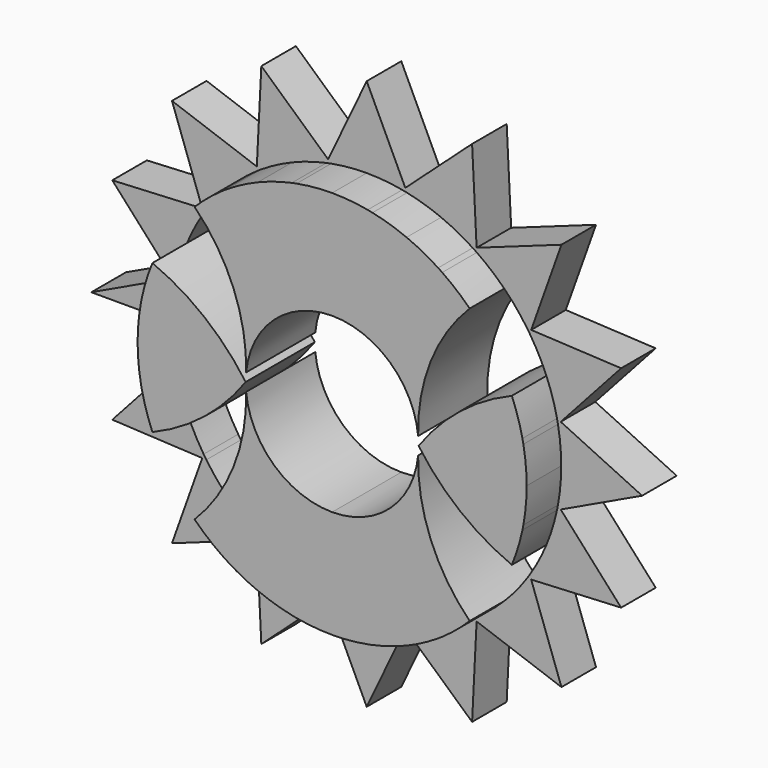
from build123d import *

# Parameters (mm, degrees)
F1_DEPTH = 6.35
F2_DEPTH = 12.7


with BuildPart() as f1:
    # F0 (on Front) → F1 (new body)
    with BuildSketch(Plane.XZ):
        with BuildLine():
            ThreePointArc((28.0940846779, 5.220443574), (28.4545171693, 2.6212740536), (28.575, 0))
            Line((28.575, 0), (40.4561832547, 0))
            Line((40.4561832547, 0), (28.4998200535, 5.6689666767))
            Line((28.4998200535, 5.6689666767), (28.0940846779, 5.220443574))
        make_face()
        with BuildLine():
            ThreePointArc((27.9533270839, 5.9280797851), (28.0259393875, 5.5747059516), (28.0940846779, 5.220443574))
            Line((28.0940846779, 5.220443574), (28.4998200535, 5.6689666767))
            Line((28.4998200535, 5.6689666767), (27.9533270839, 5.9280797851))
        make_face()
        with BuildLine():
            Line((37.3766396726, 15.4819110683), (26.3998576415, 10.9351790798))
            ThreePointArc((26.3998576415, 10.9351790798), (27.2916641722, 8.4673308494), (27.9533270839, 5.9280797851))
            Line((27.9533270839, 5.9280797851), (28.4998200535, 5.6689666767))
            Line((28.4998200535, 5.6689666767), (37.3766396726, 15.4819110683))
        make_face()
        with BuildLine():
            ThreePointArc((23.9577725532, 15.5742017223), (25.2854278682, 13.3108137438), (26.3998576415, 10.9351790798))
            Line((26.3998576415, 10.9351790798), (37.3766396726, 15.4819110683))
            Line((37.3766396726, 15.4819110683), (24.1609808019, 16.143851243))
            Line((24.1609808019, 16.143851243), (23.9577725532, 15.5742017223))
        make_face()
        with BuildLine():
            ThreePointArc((23.556928839, 16.174106735), (23.7592441715, 15.8754194085), (23.9577725532, 15.5742017223))
            Line((23.9577725532, 15.5742017223), (24.1609808019, 16.143851243))
            Line((24.1609808019, 16.143851243), (23.556928839, 16.174106735))
        make_face()
        with BuildLine():
            Line((28.6068415203, 28.6068415203), (20.2055762724, 20.2055762724))
            ThreePointArc((20.2055762724, 20.2055762724), (21.9739027044, 18.2668613871), (23.556928839, 16.174106735))
            Line((23.556928839, 16.174106735), (24.1609808019, 16.143851243))
            Line((24.1609808019, 16.143851243), (28.6068415203, 28.6068415203))
        make_face()
        with BuildLine():
            ThreePointArc((16.174106735, 23.556928839), (18.2668613871, 21.9739027044), (20.2055762724, 20.2055762724))
            Line((20.2055762724, 20.2055762724), (28.6068415203, 28.6068415203))
            Line((28.6068415203, 28.6068415203), (16.143851243, 24.1609808019))
            Line((16.143851243, 24.1609808019), (16.174106735, 23.556928839))
        make_face()
        with BuildLine():
            ThreePointArc((15.5742017223, 23.9577725532), (15.8754194085, 23.7592441715), (16.174106735, 23.556928839))
            Line((16.174106735, 23.556928839), (16.143851243, 24.1609808019))
            Line((16.143851243, 24.1609808019), (15.5742017223, 23.9577725532))
        make_face()
        with BuildLine():
            ThreePointArc((10.9351790798, 26.3998576415), (13.3108137438, 25.2854278682), (15.5742017223, 23.9577725532))
            Line((15.5742017223, 23.9577725532), (16.143851243, 24.1609808019))
            Line((16.143851243, 24.1609808019), (15.4819110683, 37.3766396726))
            Line((15.4819110683, 37.3766396726), (10.9351790798, 26.3998576415))
        make_face()
        with BuildLine():
            Line((5.6689666767, 28.4998200535), (5.9280797851, 27.9533270839))
            ThreePointArc((5.9280797851, 27.9533270839), (8.4673308494, 27.2916641722), (10.9351790798, 26.3998576415))
            Line((10.9351790798, 26.3998576415), (15.4819110683, 37.3766396726))
            Line((15.4819110683, 37.3766396726), (5.6689666767, 28.4998200535))
        make_face()
        with BuildLine():
            Line((5.6689666767, 28.4998200535), (5.220443574, 28.0940846779))
            ThreePointArc((5.220443574, 28.0940846779), (5.5747059516, 28.0259393875), (5.9280797851, 27.9533270839))
            Line((5.9280797851, 27.9533270839), (5.6689666767, 28.4998200535))
        make_face()
        with BuildLine():
            Line((0, 40.4561832547), (0, 28.575))
            ThreePointArc((0, 28.575), (2.6212740536, 28.4545171693), (5.220443574, 28.0940846779))
            Line((5.220443574, 28.0940846779), (5.6689666767, 28.4998200535))
            Line((5.6689666767, 28.4998200535), (0, 40.4561832547))
        make_face()
        with BuildLine():
            ThreePointArc((-5.220443574, 28.0940846779), (-2.6212740536, 28.4545171693), (0, 28.575))
            Line((0, 28.575), (0, 40.4561832547))
            Line((0, 40.4561832547), (-5.6689666767, 28.4998200535))
            Line((-5.6689666767, 28.4998200535), (-5.220443574, 28.0940846779))
        make_face()
        with BuildLine():
            ThreePointArc((-5.9280797851, 27.9533270839), (-5.5747059516, 28.0259393875), (-5.220443574, 28.0940846779))
            Line((-5.220443574, 28.0940846779), (-5.6689666767, 28.4998200535))
            Line((-5.6689666767, 28.4998200535), (-5.9280797851, 27.9533270839))
        make_face()
        with BuildLine():
            ThreePointArc((-10.9351790798, 26.3998576415), (-8.4673308494, 27.2916641722), (-5.9280797851, 27.9533270839))
            Line((-5.9280797851, 27.9533270839), (-5.6689666767, 28.4998200535))
            Line((-5.6689666767, 28.4998200535), (-15.4819110683, 37.3766396726))
            Line((-15.4819110683, 37.3766396726), (-10.9351790798, 26.3998576415))
        make_face()
        with BuildLine():
            Line((-16.143851243, 24.1609808019), (-15.5742017223, 23.9577725532))
            ThreePointArc((-15.5742017223, 23.9577725532), (-13.3108137438, 25.2854278682), (-10.9351790798, 26.3998576415))
            Line((-10.9351790798, 26.3998576415), (-15.4819110683, 37.3766396726))
            Line((-15.4819110683, 37.3766396726), (-16.143851243, 24.1609808019))
        make_face()
        with BuildLine():
            Line((-16.143851243, 24.1609808019), (-16.174106735, 23.556928839))
            ThreePointArc((-16.174106735, 23.556928839), (-15.8754194085, 23.7592441715), (-15.5742017223, 23.9577725532))
            Line((-15.5742017223, 23.9577725532), (-16.143851243, 24.1609808019))
        make_face()
        with BuildLine():
            Line((-28.6068415203, 28.6068415203), (-20.2055762724, 20.2055762724))
            ThreePointArc((-20.2055762724, 20.2055762724), (-18.2668613871, 21.9739027044), (-16.174106735, 23.556928839))
            Line((-16.174106735, 23.556928839), (-16.143851243, 24.1609808019))
            Line((-16.143851243, 24.1609808019), (-28.6068415203, 28.6068415203))
        make_face()
        with BuildLine():
            ThreePointArc((-23.556928839, 16.174106735), (-21.9739027044, 18.2668613871), (-20.2055762724, 20.2055762724))
            Line((-20.2055762724, 20.2055762724), (-28.6068415203, 28.6068415203))
            Line((-28.6068415203, 28.6068415203), (-24.1609808019, 16.143851243))
            Line((-24.1609808019, 16.143851243), (-23.556928839, 16.174106735))
        make_face()
        with BuildLine():
            ThreePointArc((-23.9577725532, 15.5742017223), (-23.7592441715, 15.8754194085), (-23.556928839, 16.174106735))
            Line((-23.556928839, 16.174106735), (-24.1609808019, 16.143851243))
            Line((-24.1609808019, 16.143851243), (-23.9577725532, 15.5742017223))
        make_face()
        with BuildLine():
            Line((-37.3766396726, 15.4819110683), (-26.3998576415, 10.9351790798))
            ThreePointArc((-26.3998576415, 10.9351790798), (-25.2854278682, 13.3108137438), (-23.9577725532, 15.5742017223))
            Line((-23.9577725532, 15.5742017223), (-24.1609808019, 16.143851243))
            Line((-24.1609808019, 16.143851243), (-37.3766396726, 15.4819110683))
        make_face()
        with BuildLine():
            ThreePointArc((-27.9533270839, 5.9280797851), (-27.2916641722, 8.4673308494), (-26.3998576415, 10.9351790798))
            Line((-26.3998576415, 10.9351790798), (-37.3766396726, 15.4819110683))
            Line((-37.3766396726, 15.4819110683), (-28.4998200535, 5.6689666767))
            Line((-28.4998200535, 5.6689666767), (-27.9533270839, 5.9280797851))
        make_face()
        with BuildLine():
            Line((-28.4998200535, 5.6689666767), (-28.0940846779, 5.220443574))
            ThreePointArc((-28.0940846779, 5.220443574), (-28.0259393875, 5.5747059516), (-27.9533270839, 5.9280797851))
            Line((-27.9533270839, 5.9280797851), (-28.4998200535, 5.6689666767))
        make_face()
        with BuildLine():
            Line((-40.4561832547, 0), (-28.575, 0))
            ThreePointArc((-28.575, 0), (-28.4545171693, 2.6212740536), (-28.0940846779, 5.220443574))
            Line((-28.0940846779, 5.220443574), (-28.4998200535, 5.6689666767))
            Line((-28.4998200535, 5.6689666767), (-40.4561832547, 0))
        make_face()
        with BuildLine():
            ThreePointArc((-27.9533270839, -5.9280797851), (-28.0259393875, -5.5747059516), (-28.0940846779, -5.220443574))
            Line((-28.0940846779, -5.220443574), (-28.4998200535, -5.6689666767))
            Line((-28.4998200535, -5.6689666767), (-27.9533270839, -5.9280797851))
        make_face()
        with BuildLine():
            Line((-37.3766396726, -15.4819110683), (-26.3998576415, -10.9351790798))
            ThreePointArc((-26.3998576415, -10.9351790798), (-27.2916641722, -8.4673308494), (-27.9533270839, -5.9280797851))
            Line((-27.9533270839, -5.9280797851), (-28.4998200535, -5.6689666767))
            Line((-28.4998200535, -5.6689666767), (-37.3766396726, -15.4819110683))
        make_face()
        with BuildLine():
            ThreePointArc((-23.9577725532, -15.5742017223), (-25.2854278682, -13.3108137438), (-26.3998576415, -10.9351790798))
            Line((-26.3998576415, -10.9351790798), (-37.3766396726, -15.4819110683))
            Line((-37.3766396726, -15.4819110683), (-24.1609808019, -16.143851243))
            Line((-24.1609808019, -16.143851243), (-23.9577725532, -15.5742017223))
        make_face()
        with BuildLine():
            Line((-24.1609808019, -16.143851243), (-23.556928839, -16.174106735))
            ThreePointArc((-23.556928839, -16.174106735), (-23.7592441715, -15.8754194085), (-23.9577725532, -15.5742017223))
            Line((-23.9577725532, -15.5742017223), (-24.1609808019, -16.143851243))
        make_face()
        with BuildLine():
            Line((-28.6068415203, -28.6068415203), (-20.2055762724, -20.2055762724))
            ThreePointArc((-20.2055762724, -20.2055762724), (-21.9739027044, -18.2668613871), (-23.556928839, -16.174106735))
            Line((-23.556928839, -16.174106735), (-24.1609808019, -16.143851243))
            Line((-24.1609808019, -16.143851243), (-28.6068415203, -28.6068415203))
        make_face()
        with BuildLine():
            ThreePointArc((-16.174106735, -23.556928839), (-18.2668613871, -21.9739027044), (-20.2055762724, -20.2055762724))
            Line((-20.2055762724, -20.2055762724), (-28.6068415203, -28.6068415203))
            Line((-28.6068415203, -28.6068415203), (-16.143851243, -24.1609808019))
            Line((-16.143851243, -24.1609808019), (-16.174106735, -23.556928839))
        make_face()
        with BuildLine():
            ThreePointArc((-15.5742017223, -23.9577725532), (-15.8754194085, -23.7592441715), (-16.174106735, -23.556928839))
            Line((-16.174106735, -23.556928839), (-16.143851243, -24.1609808019))
            Line((-16.143851243, -24.1609808019), (-15.5742017223, -23.9577725532))
        make_face()
        with BuildLine():
            ThreePointArc((-10.9351790798, -26.3998576415), (-13.3108137438, -25.2854278682), (-15.5742017223, -23.9577725532))
            Line((-15.5742017223, -23.9577725532), (-16.143851243, -24.1609808019))
            Line((-16.143851243, -24.1609808019), (-15.4819110683, -37.3766396726))
            Line((-15.4819110683, -37.3766396726), (-10.9351790798, -26.3998576415))
        make_face()
        with BuildLine():
            Line((-5.6689666767, -28.4998200535), (-5.9280797851, -27.9533270839))
            ThreePointArc((-5.9280797851, -27.9533270839), (-8.4673308494, -27.2916641722), (-10.9351790798, -26.3998576415))
            Line((-10.9351790798, -26.3998576415), (-15.4819110683, -37.3766396726))
            Line((-15.4819110683, -37.3766396726), (-5.6689666767, -28.4998200535))
        make_face()
        with BuildLine():
            Line((-5.6689666767, -28.4998200535), (-5.220443574, -28.0940846779))
            ThreePointArc((-5.220443574, -28.0940846779), (-5.5747059516, -28.0259393875), (-5.9280797851, -27.9533270839))
            Line((-5.9280797851, -27.9533270839), (-5.6689666767, -28.4998200535))
        make_face()
        with BuildLine():
            Line((0, -40.4561832547), (0, -28.575))
            ThreePointArc((0, -28.575), (-2.6212740536, -28.4545171693), (-5.220443574, -28.0940846779))
            Line((-5.220443574, -28.0940846779), (-5.6689666767, -28.4998200535))
            Line((-5.6689666767, -28.4998200535), (0, -40.4561832547))
        make_face()
        with BuildLine():
            ThreePointArc((5.220443574, -28.0940846779), (2.6212740536, -28.4545171693), (0, -28.575))
            Line((0, -28.575), (0, -40.4561832547))
            Line((0, -40.4561832547), (5.6689666767, -28.4998200535))
            Line((5.6689666767, -28.4998200535), (5.220443574, -28.0940846779))
        make_face()
        with BuildLine():
            ThreePointArc((5.9280797851, -27.9533270839), (5.5747059516, -28.0259393875), (5.220443574, -28.0940846779))
            Line((5.220443574, -28.0940846779), (5.6689666767, -28.4998200535))
            Line((5.6689666767, -28.4998200535), (5.9280797851, -27.9533270839))
        make_face()
        with BuildLine():
            ThreePointArc((10.9351790798, -26.3998576415), (8.4673308494, -27.2916641722), (5.9280797851, -27.9533270839))
            Line((5.9280797851, -27.9533270839), (5.6689666767, -28.4998200535))
            Line((5.6689666767, -28.4998200535), (15.4819110683, -37.3766396726))
            Line((15.4819110683, -37.3766396726), (10.9351790798, -26.3998576415))
        make_face()
        with BuildLine():
            Line((16.143851243, -24.1609808019), (15.5742017223, -23.9577725532))
            ThreePointArc((15.5742017223, -23.9577725532), (13.3108137438, -25.2854278682), (10.9351790798, -26.3998576415))
            Line((10.9351790798, -26.3998576415), (15.4819110683, -37.3766396726))
            Line((15.4819110683, -37.3766396726), (16.143851243, -24.1609808019))
        make_face()
        with BuildLine():
            Line((16.143851243, -24.1609808019), (16.174106735, -23.556928839))
            ThreePointArc((16.174106735, -23.556928839), (15.8754194085, -23.7592441715), (15.5742017223, -23.9577725532))
            Line((15.5742017223, -23.9577725532), (16.143851243, -24.1609808019))
        make_face()
        with BuildLine():
            Line((28.6068415203, -28.6068415203), (20.2055762724, -20.2055762724))
            ThreePointArc((20.2055762724, -20.2055762724), (18.2668613871, -21.9739027044), (16.174106735, -23.556928839))
            Line((16.174106735, -23.556928839), (16.143851243, -24.1609808019))
            Line((16.143851243, -24.1609808019), (28.6068415203, -28.6068415203))
        make_face()
        with BuildLine():
            ThreePointArc((23.556928839, -16.174106735), (21.9739027044, -18.2668613871), (20.2055762724, -20.2055762724))
            Line((20.2055762724, -20.2055762724), (28.6068415203, -28.6068415203))
            Line((28.6068415203, -28.6068415203), (24.1609808019, -16.143851243))
            Line((24.1609808019, -16.143851243), (23.556928839, -16.174106735))
        make_face()
        with BuildLine():
            Line((24.1609808019, -16.143851243), (23.9577725532, -15.5742017223))
            ThreePointArc((23.9577725532, -15.5742017223), (23.7592441715, -15.8754194085), (23.556928839, -16.174106735))
            Line((23.556928839, -16.174106735), (24.1609808019, -16.143851243))
        make_face()
        with BuildLine():
            Line((37.3766396726, -15.4819110683), (26.3998576415, -10.9351790798))
            ThreePointArc((26.3998576415, -10.9351790798), (25.2854278682, -13.3108137438), (23.9577725532, -15.5742017223))
            Line((23.9577725532, -15.5742017223), (24.1609808019, -16.143851243))
            Line((24.1609808019, -16.143851243), (37.3766396726, -15.4819110683))
        make_face()
        with BuildLine():
            ThreePointArc((27.9533270839, -5.9280797851), (27.2916641722, -8.4673308494), (26.3998576415, -10.9351790798))
            Line((26.3998576415, -10.9351790798), (37.3766396726, -15.4819110683))
            Line((37.3766396726, -15.4819110683), (28.4998200535, -5.6689666767))
            Line((28.4998200535, -5.6689666767), (27.9533270839, -5.9280797851))
        make_face()
        with BuildLine():
            Line((28.4998200535, -5.6689666767), (28.0940846779, -5.220443574))
            ThreePointArc((28.0940846779, -5.220443574), (28.0259393875, -5.5747059516), (27.9533270839, -5.9280797851))
            Line((27.9533270839, -5.9280797851), (28.4998200535, -5.6689666767))
        make_face()
        with BuildLine():
            Line((40.4561832547, 0), (28.575, 0))
            ThreePointArc((28.575, 0), (28.4545171693, -2.6212740536), (28.0940846779, -5.220443574))
            Line((28.0940846779, -5.220443574), (28.4998200535, -5.6689666767))
            Line((28.4998200535, -5.6689666767), (40.4561832547, 0))
        make_face()
    extrude(amount=F1_DEPTH)

    # F0 (on Front) → F2 (join)
    with BuildSketch(Plane.XZ):
        with BuildLine():
            ThreePointArc((-12.637350148, 1.259913186), (-8.5231772989, 9.4151712003), (0, 12.7))
            Line((0, 12.7), (0, 28.575))
            ThreePointArc((0, 28.575), (-2.6212740536, 28.4545171693), (-5.220443574, 28.0940846779))
            ThreePointArc((-5.220443574, 28.0940846779), (-5.5747059516, 28.0259393875), (-5.9280797851, 27.9533270839))
            ThreePointArc((-5.9280797851, 27.9533270839), (-8.4673308494, 27.2916641722), (-10.9351790798, 26.3998576415))
            ThreePointArc((-10.9351790798, 26.3998576415), (-13.3108137438, 25.2854278682), (-15.5742017223, 23.9577725532))
            ThreePointArc((-15.5742017223, 23.9577725532), (-15.8754194085, 23.7592441715), (-16.174106735, 23.556928839))
            ThreePointArc((-16.174106735, 23.556928839), (-18.2668613871, 21.9739027044), (-20.2055762724, 20.2055762724))
            ThreePointArc((-20.2055762724, 20.2055762724), (-14.4748363035, 11.5103639945), (-12.637350148, 1.259913186))
        make_face()
        with BuildLine():
            ThreePointArc((0, 12.7), (8.5231772989, 9.4151712003), (12.637350148, 1.259913186))
            ThreePointArc((12.637350148, 1.259913186), (14.4748363035, 11.5103639945), (20.2055762724, 20.2055762724))
            ThreePointArc((20.2055762724, 20.2055762724), (18.2668613871, 21.9739027044), (16.174106735, 23.556928839))
            ThreePointArc((16.174106735, 23.556928839), (15.8754194085, 23.7592441715), (15.5742017223, 23.9577725532))
            ThreePointArc((15.5742017223, 23.9577725532), (13.3108137438, 25.2854278682), (10.9351790798, 26.3998576415))
            ThreePointArc((10.9351790798, 26.3998576415), (8.4673308494, 27.2916641722), (5.9280797851, 27.9533270839))
            ThreePointArc((5.9280797851, 27.9533270839), (5.5747059516, 28.0259393875), (5.220443574, 28.0940846779))
            ThreePointArc((5.220443574, 28.0940846779), (2.6212740536, 28.4545171693), (0, 28.575))
            Line((0, 28.575), (0, 12.7))
        make_face()
        with BuildLine():
            Line((-28.575, 0), (-12.7, 0))
            ThreePointArc((-12.7, 0), (-18.7768013466, 6.4361823958), (-26.3998576415, 10.9351790798))
            ThreePointArc((-26.3998576415, 10.9351790798), (-27.2916641722, 8.4673308494), (-27.9533270839, 5.9280797851))
            ThreePointArc((-27.9533270839, 5.9280797851), (-28.0259393875, 5.5747059516), (-28.0940846779, 5.220443574))
            ThreePointArc((-28.0940846779, 5.220443574), (-28.4545171693, 2.6212740536), (-28.575, 0))
        make_face()
        with BuildLine():
            ThreePointArc((-26.3998576415, -10.9351790798), (-18.7768013466, -6.4361823958), (-12.7, 0))
            Line((-12.7, 0), (-28.575, 0))
            ThreePointArc((-28.575, 0), (-28.4545171693, -2.6212740536), (-28.0940846779, -5.220443574))
            ThreePointArc((-28.0940846779, -5.220443574), (-28.0259393875, -5.5747059516), (-27.9533270839, -5.9280797851))
            ThreePointArc((-27.9533270839, -5.9280797851), (-27.2916641722, -8.4673308494), (-26.3998576415, -10.9351790798))
        make_face()
        with BuildLine():
            Line((0, -28.575), (0, -12.7))
            ThreePointArc((0, -12.7), (-8.5231772989, -9.4151712003), (-12.637350148, -1.259913186))
            ThreePointArc((-12.637350148, -1.259913186), (-14.4748363035, -11.5103639945), (-20.2055762724, -20.2055762724))
            ThreePointArc((-20.2055762724, -20.2055762724), (-18.2668613871, -21.9739027044), (-16.174106735, -23.556928839))
            ThreePointArc((-16.174106735, -23.556928839), (-15.8754194085, -23.7592441715), (-15.5742017223, -23.9577725532))
            ThreePointArc((-15.5742017223, -23.9577725532), (-13.3108137438, -25.2854278682), (-10.9351790798, -26.3998576415))
            ThreePointArc((-10.9351790798, -26.3998576415), (-8.4673308494, -27.2916641722), (-5.9280797851, -27.9533270839))
            ThreePointArc((-5.9280797851, -27.9533270839), (-5.5747059516, -28.0259393875), (-5.220443574, -28.0940846779))
            ThreePointArc((-5.220443574, -28.0940846779), (-2.6212740536, -28.4545171693), (0, -28.575))
        make_face()
        with BuildLine():
            ThreePointArc((20.2055762724, -20.2055762724), (14.4748363035, -11.5103639945), (12.637350148, -1.259913186))
            ThreePointArc((12.637350148, -1.259913186), (8.5231772989, -9.4151712003), (0, -12.7))
            Line((0, -12.7), (0, -28.575))
            ThreePointArc((0, -28.575), (2.6212740536, -28.4545171693), (5.220443574, -28.0940846779))
            ThreePointArc((5.220443574, -28.0940846779), (5.5747059516, -28.0259393875), (5.9280797851, -27.9533270839))
            ThreePointArc((5.9280797851, -27.9533270839), (8.4673308494, -27.2916641722), (10.9351790798, -26.3998576415))
            ThreePointArc((10.9351790798, -26.3998576415), (13.3108137438, -25.2854278682), (15.5742017223, -23.9577725532))
            ThreePointArc((15.5742017223, -23.9577725532), (15.8754194085, -23.7592441715), (16.174106735, -23.556928839))
            ThreePointArc((16.174106735, -23.556928839), (18.2668613871, -21.9739027044), (20.2055762724, -20.2055762724))
        make_face()
        with BuildLine():
            ThreePointArc((26.3998576415, 10.9351790798), (18.7768013466, 6.4361823958), (12.7, 0))
            Line((12.7, 0), (28.575, 0))
            ThreePointArc((28.575, 0), (28.4545171693, 2.6212740536), (28.0940846779, 5.220443574))
            ThreePointArc((28.0940846779, 5.220443574), (28.0259393875, 5.5747059516), (27.9533270839, 5.9280797851))
            ThreePointArc((27.9533270839, 5.9280797851), (27.2916641722, 8.4673308494), (26.3998576415, 10.9351790798))
        make_face()
        with BuildLine():
            Line((28.575, 0), (12.7, 0))
            ThreePointArc((12.7, 0), (18.7768013466, -6.4361823958), (26.3998576415, -10.9351790798))
            ThreePointArc((26.3998576415, -10.9351790798), (27.2916641722, -8.4673308494), (27.9533270839, -5.9280797851))
            ThreePointArc((27.9533270839, -5.9280797851), (28.0259393875, -5.5747059516), (28.0940846779, -5.220443574))
            ThreePointArc((28.0940846779, -5.220443574), (28.4545171693, -2.6212740536), (28.575, 0))
        make_face()
    extrude(amount=F2_DEPTH)


solid = f1.part
